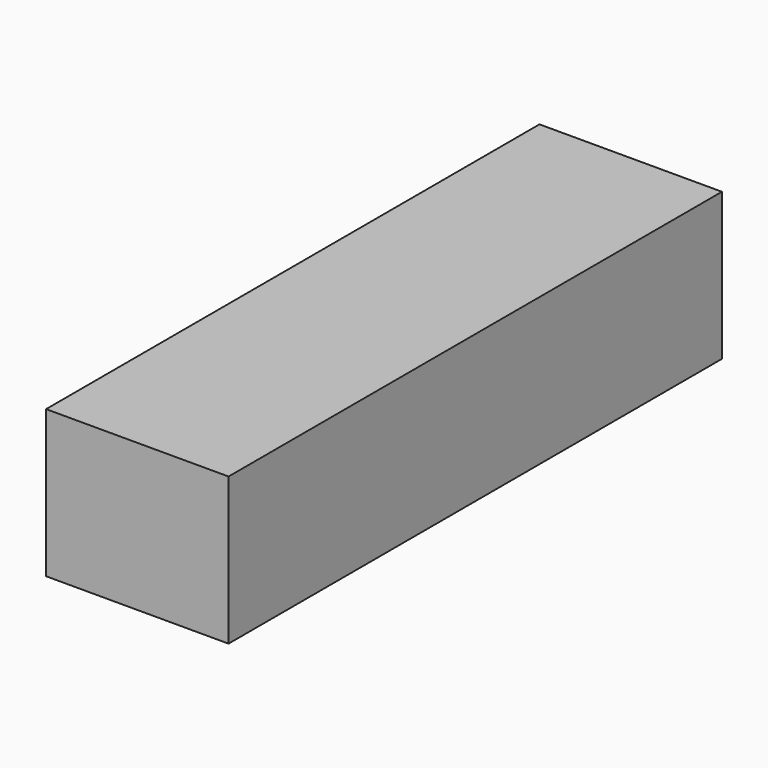
from build123d import *

# Parameters (mm, degrees)
F0_W      = 54.258138
F0_H      = 43.755226
F1_DEPTH  = 60.96
F1_FACE_W = 54.258138
F1_FACE_H = 43.755226
F2_DEPTH  = 40.386
F3_DEPTH  = 122.428


with BuildPart() as f1:
    # F0 (on Front) → F1 (new body)
    with BuildSketch(Plane.XZ):
        with Locations((1.340933, 7.264946)):
            Rectangle(F0_W, F0_H)
    extrude(amount=F1_DEPTH)

    # F1_face (on face) → F2 (join)
    with BuildSketch(Plane(origin=(1.340933, -60.96, 7.264946), x_dir=(1, 0, 0), z_dir=(0, -1, 0))):
        Rectangle(F1_FACE_W, F1_FACE_H)
    extrude(amount=-F2_DEPTH)

    # F1_face (on face) → F3 (join)
    with BuildSketch(Plane(origin=(1.340933, -60.96, 7.264946), x_dir=(1, 0, 0), z_dir=(0, -1, 0))):
        Rectangle(F1_FACE_W, F1_FACE_H)
    extrude(amount=F3_DEPTH)


solid = f1.part
